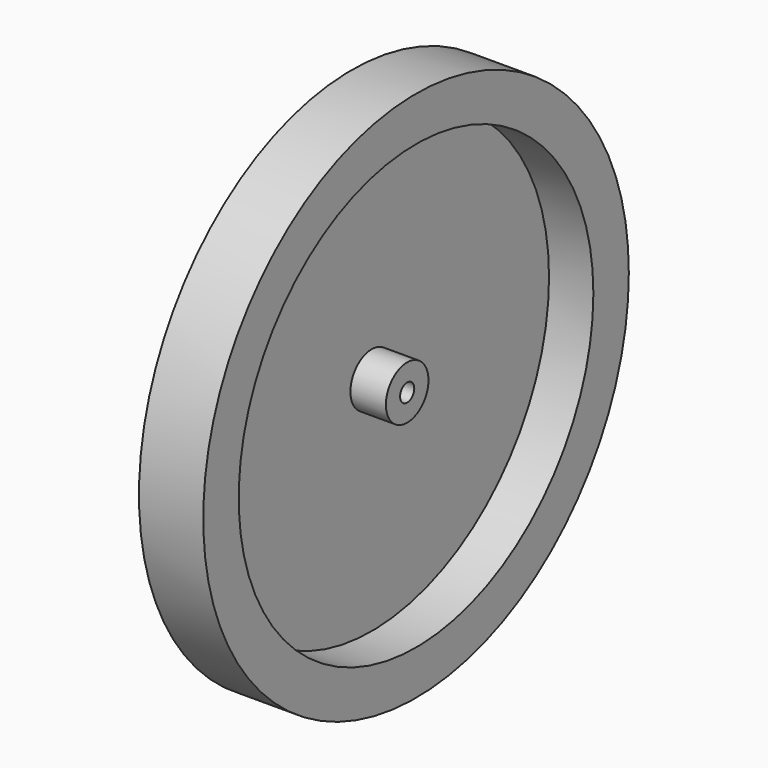
from build123d import *

# Parameters (mm, degrees)
SKETCH058_R     = 30
PAD035_DEPTH    = 7.25
SKETCH067_R     = 25
POCKET016_DEPTH = 5
SKETCH068_R     = 3
PAD040_DEPTH    = 4
SKETCH069_R     = 1
POCKET017_DEPTH = 4


with BuildPart() as part:
    # Sketch058 → Pad035 (new body)
    with BuildSketch(Plane.YZ):
        with Locations((50, 14)):
            Circle(SKETCH058_R)
    extrude(amount=PAD035_DEPTH)

    # Sketch067 (on Face3 of Pad035) → Pocket016 (cut)
    with BuildSketch(Plane.YZ.offset(7.25)):
        with Locations((50, 14)):
            Circle(SKETCH067_R)
    extrude(amount=-POCKET016_DEPTH, mode=Mode.SUBTRACT)

    # Sketch068 (on Face5 of Pocket016) → Pad040 (join)
    with BuildSketch(Plane.YZ.offset(2.25)):
        with Locations((50, 14)):
            Circle(SKETCH068_R)
    extrude(amount=PAD040_DEPTH)

    # Sketch069 (on Face7 of Pad040) → Pocket017 (cut)
    with BuildSketch(Plane.YZ.offset(6.25)):
        with Locations((50, 14)):
            Circle(SKETCH069_R)
    extrude(amount=-POCKET017_DEPTH, mode=Mode.SUBTRACT)


solid = part.part
